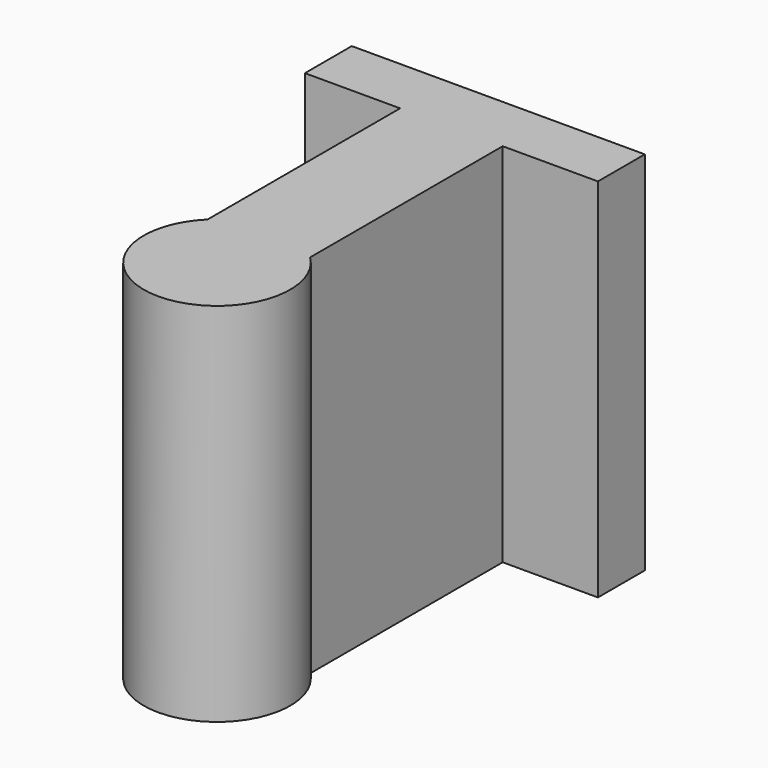
from build123d import *

# Parameters (mm, degrees)
F1_DEPTH = 25


with BuildPart() as f1:
    # F0 (on Top) → F1 (new body)
    with BuildSketch(Plane.XY):
        with BuildLine():
            Line((-3.5, 20), (-3.5, 3.570714))
            ThreePointArc((-3.5, 3.570714), (0, -5), (3.5, 3.570714))
            Line((3.5, 3.570714), (3.5, 20))
            Line((3.5, 20), (10, 20))
            Line((10, 20), (10, 24))
            Line((10, 24), (-10, 24))
            Line((-10, 24), (-10, 20))
            Line((-10, 20), (-3.5, 20))
        make_face()
    extrude(amount=-F1_DEPTH)


solid = f1.part
